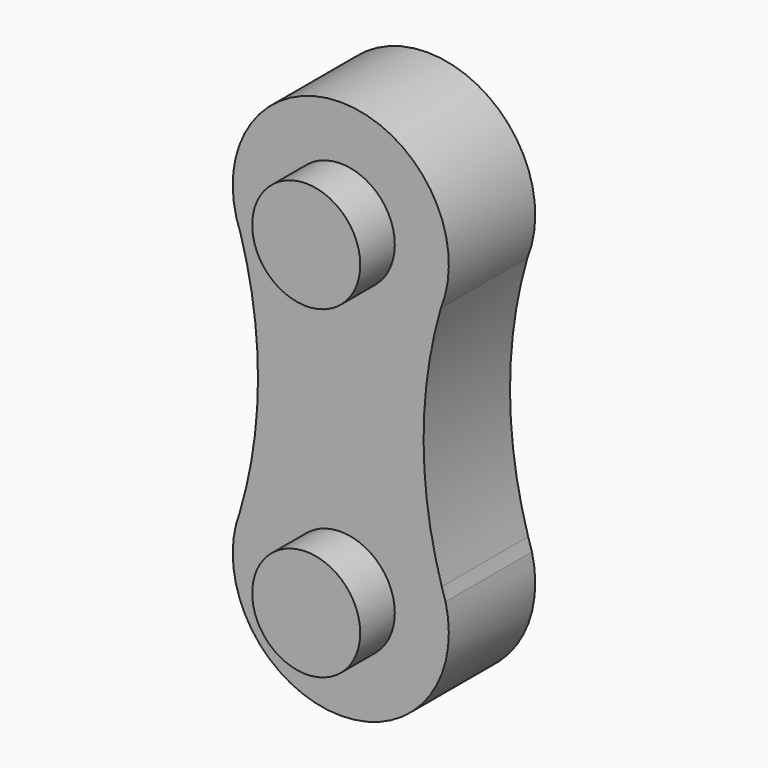
from build123d import *

# Parameters (mm, degrees)
F0_R     = 63.5
F1_DEPTH = 63.5
F2_R     = 63.5
F3_DEPTH = 114.3


with BuildPart() as f1:
    # F0 (on Front) → F1 (new body, symmetric)
    with BuildSketch(Plane.XZ):
        with BuildLine():
            ThreePointArc((118.6829640204, -145.2965261143), (97.3456659437, -1.2760155614), (117.7348895946, 142.88177059))
            ThreePointArc((117.7348895946, 142.88177059), (0, 317.5), (-117.7348895946, 142.88177059))
            ThreePointArc((-117.7348895946, 142.88177059), (-97.3456659437, -1.2760155614), (-118.6829640204, -145.2965261143))
            ThreePointArc((-118.6829640204, -145.2965261143), (-120.8619021415, -152.3861293068), (-123.1441147186, -159.4431648398))
            ThreePointArc((-123.1441147186, -159.4431648398), (0, -317.5), (123.1441147186, -159.4431648398))
            ThreePointArc((123.1441147186, -159.4431648398), (120.8619021415, -152.3861293068), (118.6829640204, -145.2965261143))
        make_face()
        with Locations((0, -190.5)):
            Circle(F0_R, mode=Mode.SUBTRACT)
        with Locations((0, 190.5)):
            Circle(F0_R, mode=Mode.SUBTRACT)
    extrude(amount=F1_DEPTH, both=True)

    # F2 (on Front) → F3 (join, symmetric)
    with BuildSketch(Plane.XZ):
        with Locations((0, 190.5)):
            Circle(F2_R)
        with Locations((0, -190.5)):
            Circle(F2_R)
    extrude(amount=F3_DEPTH, both=True)


solid = f1.part
